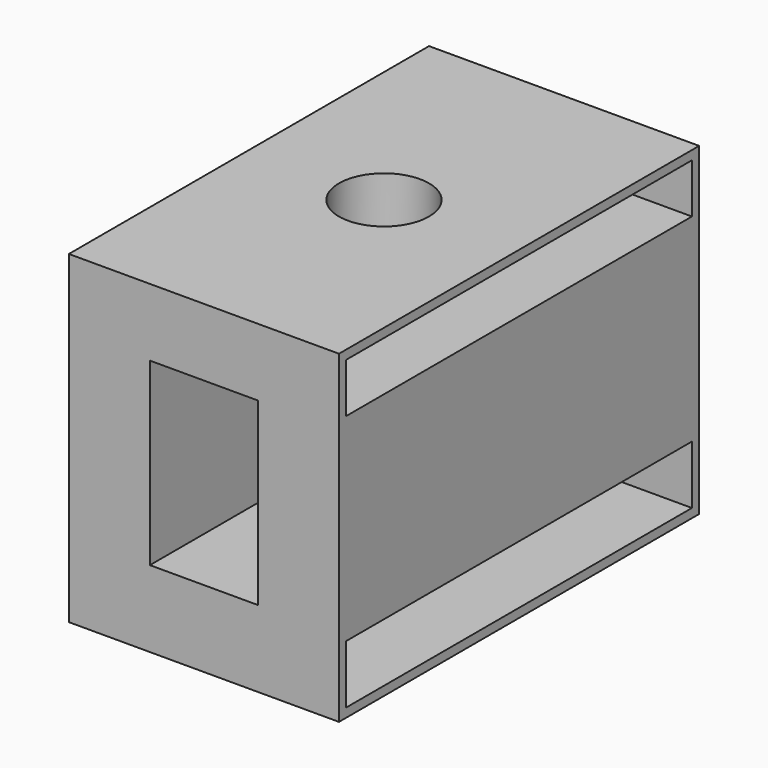
from build123d import *

# Parameters (mm, degrees)
F0_W     = 76.2
F0_H     = 127
F0_R     = 12.7
F1_DEPTH = 91.44
F2_W     = 30.48
F2_H     = 50.8
F3_DEPTH = 143.256
F4_T     = -2.54
F5_DEPTH = 20.32


with BuildPart() as f1:
    # F0 (on Top) → F1 (new body)
    with BuildSketch(Plane.XY):
        with Locations((-16.1199760675, 63.5)):
            Rectangle(F0_W, F0_H)
        with Locations((-16.1199760675, 63.5)):
            Circle(F0_R, mode=Mode.SUBTRACT)
    extrude(amount=F1_DEPTH)

    # F2 (on face) → F3 (cut)
    with BuildSketch(Plane(origin=(0, 127, 0), x_dir=(-1, 0, 0), z_dir=(0, 1, 0))):
        with Locations((16.1199760675, 46.99)):
            Rectangle(F2_W, F2_H)
    extrude(amount=-F3_DEPTH, mode=Mode.SUBTRACT)

    # F4
    f4_openings = [f1.faces().sort_by_distance(p)[0] for p in [
        (21.980024, 63.5, 45.72),
        (-54.219976, 63.5, 45.72),
    ]]
    offset(amount=F4_T, openings=f4_openings, kind=Kind.INTERSECTION)

    # F5 (add): a face of the model
    f5_faces = [f1.faces().sort_by_distance(p)[0] for p in [
        (1.6600239325, 63.5, 46.99),
    ]]
    extrude(f5_faces, amount=F5_DEPTH)


solid = f1.part
